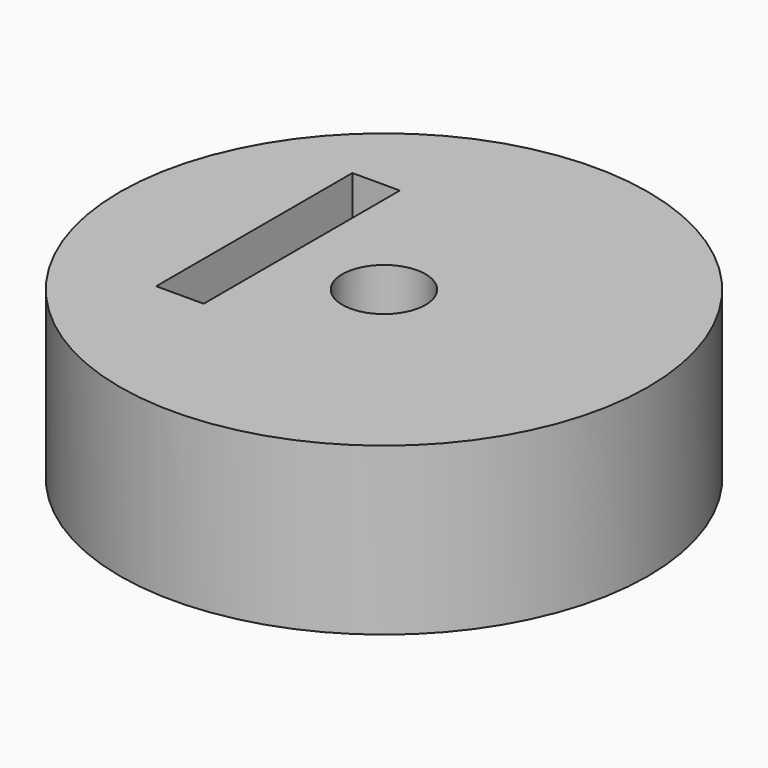
from build123d import *

# Parameters (mm, degrees)
F0_R     = 9.525
F0_W     = 1.711444
F0_H     = 8.84246
F0_R_2   = 1.5
F1_DEPTH = 6


with BuildPart() as f1:
    # F0 (on Top) → F1 (new body)
    with BuildSketch(Plane.XY):
        Circle(F0_R)
        with Locations((-4.278609, 0.570481)):
            Rectangle(F0_W, F0_H, mode=Mode.SUBTRACT)
        Circle(F0_R_2, mode=Mode.SUBTRACT)
    extrude(amount=F1_DEPTH)


solid = f1.part
